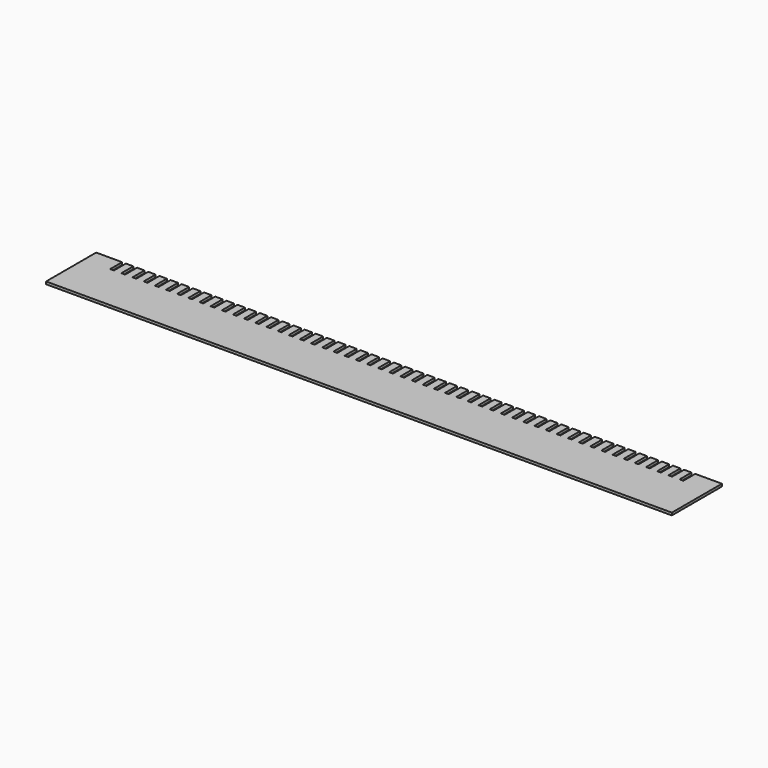
from build123d import *

# Parameters (mm, degrees)
F1_DEPTH = 1


with BuildPart() as f1:
    # F0 (on Top) → F1 (new body)
    with BuildSketch(Plane.XY):
        Polygon((-72.351047, 53.011278), (-82.74502, 53.011278), (-82.74502, 28.011278), (167.25498, 28.011278), (167.25498, 53.011278), (156.608953, 53.011278), (156.608953, 47.011278), (155.108953, 47.011278), (155.108953, 53.011278), (152.148953, 53.011278), (152.148953, 47.011278), (150.648953, 47.011278), (150.648953, 53.011278), (147.688953, 53.011278), (147.688953, 47.011278), (146.188953, 47.011278), (146.188953, 53.011278), (143.228953, 53.011278), (143.228953, 47.011278), (141.728953, 47.011278), (141.728953, 53.011278), (138.768953, 53.011278), (138.768953, 47.011278), (137.268953, 47.011278), (137.268953, 53.011278), (134.308953, 53.011278), (134.308953, 47.011278), (132.808953, 47.011278), (132.808953, 53.011278), (129.848953, 53.011278), (129.848953, 47.011278), (128.348953, 47.011278), (128.348953, 53.011278), (125.388953, 53.011278), (125.388953, 47.011278), (123.888953, 47.011278), (123.888953, 53.011278), (120.928953, 53.011278), (120.928953, 47.011278), (119.428953, 47.011278), (119.428953, 53.011278), (116.468953, 53.011278), (116.468953, 47.011278), (114.968953, 47.011278), (114.968953, 53.011278), (112.008953, 53.011278), (112.008953, 47.011278), (110.508953, 47.011278), (110.508953, 53.011278), (107.548953, 53.011278), (107.548953, 47.011278), (106.048953, 47.011278), (106.048953, 53.011278), (103.088953, 53.011278), (103.088953, 47.011278), (101.588953, 47.011278), (101.588953, 53.011278), (98.628953, 53.011278), (98.628953, 47.011278), (97.128953, 47.011278), (97.128953, 53.011278), (94.168953, 53.011278), (94.168953, 47.011278), (92.668953, 47.011278), (92.668953, 53.011278), (89.708953, 53.011278), (89.708953, 47.011278), (88.208953, 47.011278), (88.208953, 53.011278), (85.248953, 53.011278), (85.248953, 47.011278), (83.748953, 47.011278), (83.748953, 53.011278), (80.788953, 53.011278), (80.788953, 47.011278), (79.288953, 47.011278), (79.288953, 53.011278), (76.328953, 53.011278), (76.328953, 47.011278), (74.828953, 47.011278), (74.828953, 53.011278), (71.868953, 53.011278), (71.868953, 47.011278), (70.368953, 47.011278), (70.368953, 53.011278), (67.408953, 53.011278), (67.408953, 47.011278), (65.908953, 47.011278), (65.908953, 53.011278), (62.948953, 53.011278), (62.948953, 47.011278), (61.448953, 47.011278), (61.448953, 53.011278), (58.488953, 53.011278), (58.488953, 47.011278), (56.988953, 47.011278), (56.988953, 53.011278), (54.028953, 53.011278), (54.028953, 47.011278), (52.528953, 47.011278), (52.528953, 53.011278), (49.568953, 53.011278), (49.568953, 47.011278), (48.068953, 47.011278), (48.068953, 53.011278), (45.108953, 53.011278), (45.108953, 47.011278), (43.608953, 47.011278), (43.608953, 53.011278), (40.648953, 53.011278), (40.648953, 47.011278), (39.148953, 47.011278), (39.148953, 53.011278), (36.188953, 53.011278), (36.188953, 47.011278), (34.688953, 47.011278), (34.688953, 53.011278), (31.728953, 53.011278), (31.728953, 47.011278), (30.228953, 47.011278), (30.228953, 53.011278), (27.268953, 53.011278), (27.268953, 47.011278), (25.768953, 47.011278), (25.768953, 53.011278), (22.808953, 53.011278), (22.808953, 47.011278), (21.308953, 47.011278), (21.308953, 53.011278), (18.348953, 53.011278), (18.348953, 47.011278), (16.848953, 47.011278), (16.848953, 53.011278), (13.888953, 53.011278), (13.888953, 47.011278), (12.388953, 47.011278), (12.388953, 53.011278), (9.428953, 53.011278), (9.428953, 47.011278), (7.928953, 47.011278), (7.928953, 53.011278), (4.968953, 53.011278), (4.968953, 47.011278), (3.468953, 47.011278), (3.468953, 53.011278), (0.508953, 53.011278), (0.508953, 47.011278), (-0.991047, 47.011278), (-0.991047, 53.011278), (-3.951047, 53.011278), (-3.951047, 47.011278), (-5.451047, 47.011278), (-5.451047, 53.011278), (-8.411047, 53.011278), (-8.411047, 47.011278), (-9.911047, 47.011278), (-9.911047, 53.011278), (-12.871047, 53.011278), (-12.871047, 47.011278), (-14.371047, 47.011278), (-14.371047, 53.011278), (-17.331047, 53.011278), (-17.331047, 47.011278), (-18.831047, 47.011278), (-18.831047, 53.011278), (-21.791047, 53.011278), (-21.791047, 47.011278), (-23.291047, 47.011278), (-23.291047, 53.011278), (-26.251047, 53.011278), (-26.251047, 47.011278), (-27.751047, 47.011278), (-27.751047, 53.011278), (-30.711047, 53.011278), (-30.711047, 47.011278), (-32.211047, 47.011278), (-32.211047, 53.011278), (-35.171047, 53.011278), (-35.171047, 47.011278), (-36.671047, 47.011278), (-36.671047, 53.011278), (-39.631047, 53.011278), (-39.631047, 47.011278), (-41.131047, 47.011278), (-41.131047, 53.011278), (-44.091047, 53.011278), (-44.091047, 47.011278), (-45.591047, 47.011278), (-45.591047, 53.011278), (-48.551047, 53.011278), (-48.551047, 47.011278), (-50.051047, 47.011278), (-50.051047, 53.011278), (-53.011047, 53.011278), (-53.011047, 47.011278), (-54.511047, 47.011278), (-54.511047, 53.011278), (-57.471047, 53.011278), (-57.471047, 47.011278), (-58.971047, 47.011278), (-58.971047, 53.011278), (-61.931047, 53.011278), (-61.931047, 47.011278), (-63.431047, 47.011278), (-63.431047, 53.011278), (-66.391047, 53.011278), (-66.391047, 47.011278), (-67.891047, 47.011278), (-67.891047, 53.011278), (-70.851047, 53.011278), (-70.851047, 47.011278), (-72.351047, 47.011278), align=None)
    extrude(amount=F1_DEPTH)


solid = f1.part
